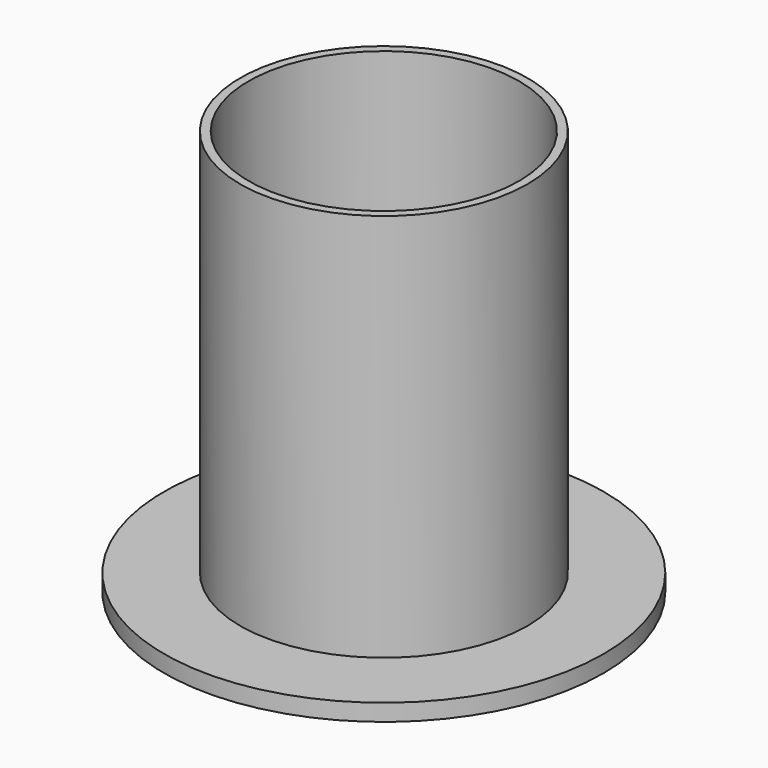
from build123d import *

# Parameters (mm, degrees)
TUBE001_R     = 41.275
TUBE001_R_2   = 25.4
TUBE001_DEPTH = 3.175
TUBE_R        = 26.9875
TUBE_R_2      = 25.4
TUBE_DEPTH    = 76.2


with BuildPart() as tube001:
    # Tube001 → Tube001 (new body)
    with BuildSketch(Plane.XY):
        Circle(TUBE001_R)
        Circle(TUBE001_R_2, mode=Mode.SUBTRACT)
    extrude(amount=TUBE001_DEPTH)


with BuildPart() as fusion:
    # Tube → Tube (new body)
    with BuildSketch(Plane.XY):
        Circle(TUBE_R)
        Circle(TUBE_R_2, mode=Mode.SUBTRACT)
    extrude(amount=TUBE_DEPTH)

    # Fusion: union Tube001
    add(tube001.part)


solid = fusion.part
